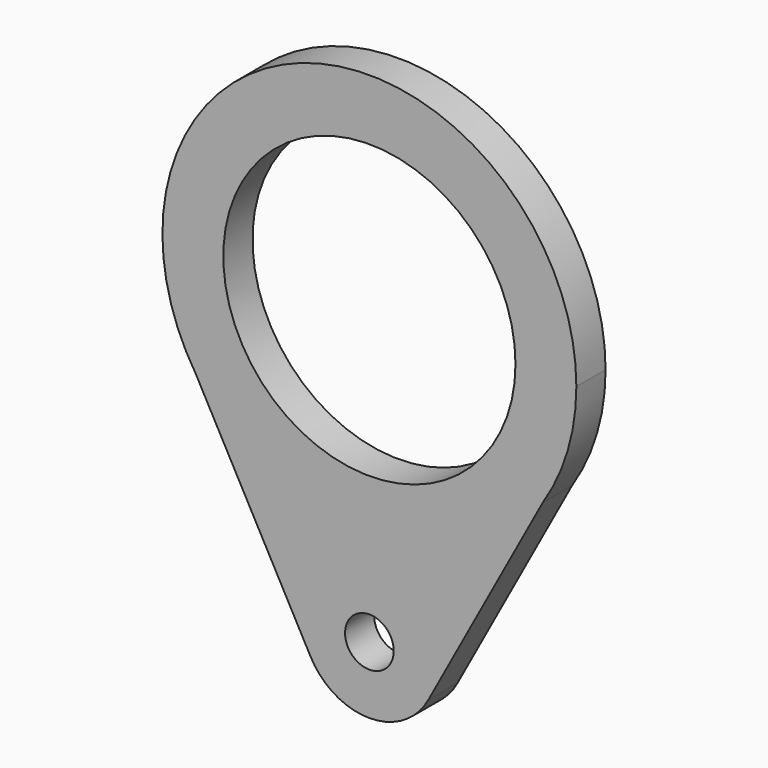
from build123d import *

# Parameters (mm, degrees)
F0_R     = 38.1
F0_R_2   = 6.35
F1_DEPTH = 9.525


with BuildPart() as f1:
    # F0 (on Front) → F1 (new body)
    with BuildSketch(Plane.XZ):
        with BuildLine():
            ThreePointArc((45.218708, -29.471497), (51.739638, -15.372392), (53.975, 0))
            ThreePointArc((53.975, 0), (-15.372392, 51.739638), (-45.218708, -29.471497))
            ThreePointArc((-45.218708, -29.471497), (0, -53.975), (45.218708, -29.471497))
        make_face()
        Circle(F0_R, mode=Mode.SUBTRACT)
        with BuildLine():
            ThreePointArc((45.218708, -29.471497), (0, -53.975), (-45.218708, -29.471497))
            Line((-45.218708, -29.471497), (-15.349062, -84.527377))
            ThreePointArc((-15.349062, -84.527377), (-4.29569, -59.274104), (17.4625, -76.2))
            ThreePointArc((17.4625, -76.2), (16.925896, -80.49569), (15.349062, -84.527377))
            Line((15.349062, -84.527377), (45.218708, -29.471497))
        make_face()
        with BuildLine():
            ThreePointArc((17.4625, -76.2), (-4.29569, -59.274104), (-15.349062, -84.527377))
            ThreePointArc((-15.349062, -84.527377), (0, -93.6625), (15.349062, -84.527377))
            ThreePointArc((15.349062, -84.527377), (16.925896, -80.49569), (17.4625, -76.2))
        make_face()
        with Locations((0, -76.2)):
            Circle(F0_R_2, mode=Mode.SUBTRACT)
    extrude(amount=F1_DEPTH)


solid = f1.part
